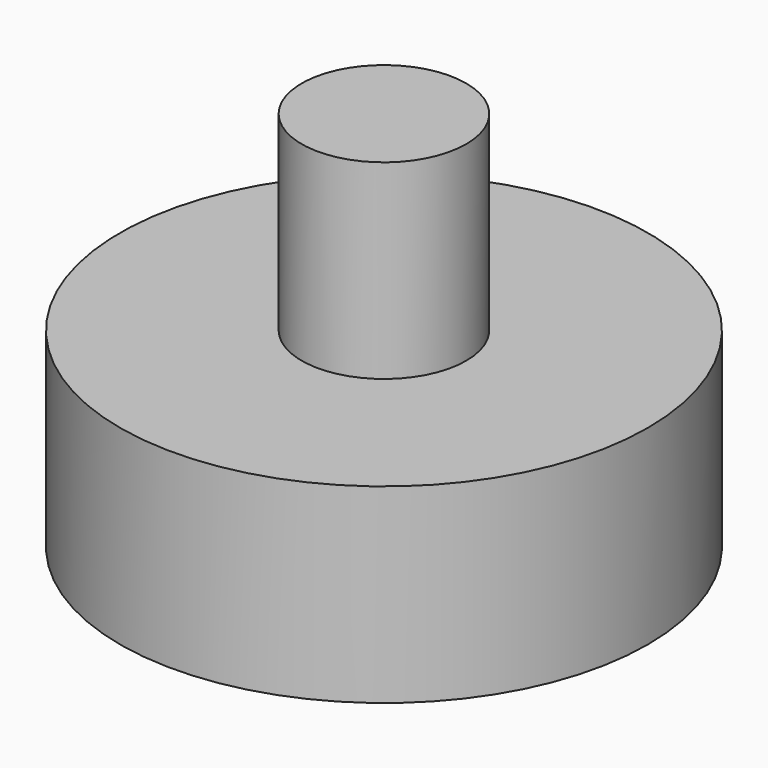
from build123d import *

# Parameters (mm, degrees)
F0_R     = 35.15474
F1_DEPTH = 25.4
F2_R     = 10.956864
F3_DEPTH = 50.8


with BuildPart() as f1:
    # F0 (on Top) → F1 (new body)
    with BuildSketch(Plane.XY):
        Circle(F0_R)
    extrude(amount=-F1_DEPTH)

    # F2 (on face) → F3 (join)
    with BuildSketch(Plane(origin=(0, 0, -25.4), x_dir=(1, 0, 0), z_dir=(0, 0, -1))):
        Circle(F2_R)
    extrude(amount=-F3_DEPTH)


solid = f1.part
